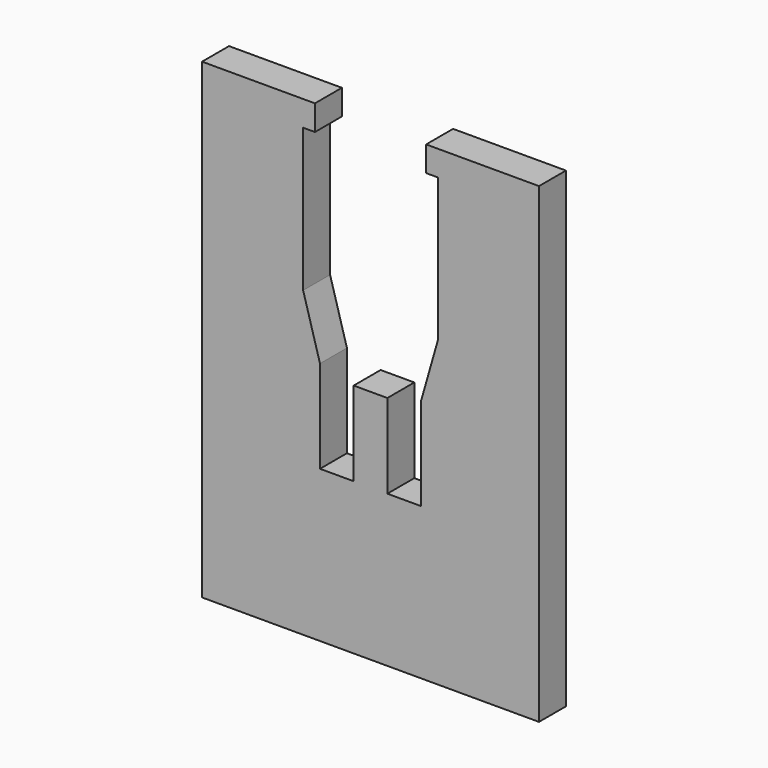
from build123d import *

# Parameters (mm, degrees)
F1_DEPTH = 2


with BuildPart() as f1:
    # F0 (on Front) → F1 (new body)
    with BuildSketch(Plane.XZ):
        Polygon((-10, -14), (10, -14), (10, 14), (3.3, 14), (3.3, 12.5), (4, 12.5), (4, 4), (3, 0.5), (3, -5), (1, -5), (1, 0), (0, 0), (-1, 0), (-1, -5), (-3, -5), (-3, 0.5), (-4, 4), (-4, 12.5), (-3.3, 12.5), (-3.3, 14), (-10, 14), align=None)
    extrude(amount=F1_DEPTH)


solid = f1.part
